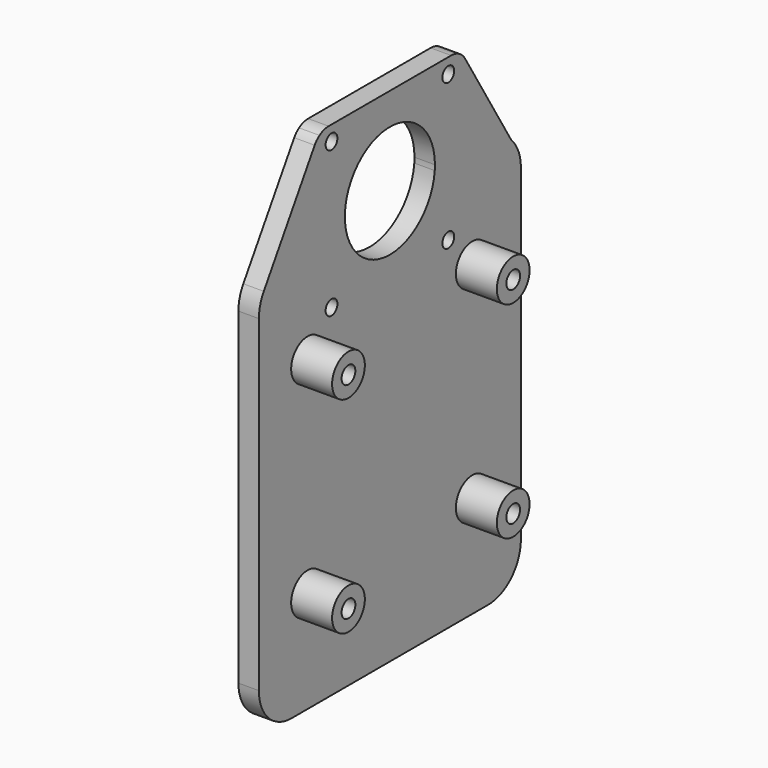
from build123d import *

# Parameters (mm, degrees)
F0_R     = 5
F0_R_2   = 1.8
F1_DEPTH = 5
F0_R_3   = 2.1
F2_DEPTH = 15


with BuildPart() as f1:
    # F0 (on Right) → F1 (new body)
    with BuildSketch(Plane.YZ):
        with BuildLine():
            Line((-30, -75.14885), (30, -75.14885))
            ThreePointArc((30, -75.14885), (37.071068, -72.219918), (40, -65.14885))
            Line((40, -65.14885), (40, 14.85115))
            ThreePointArc((40, 14.85115), (39.238795, 18.677984), (37.071068, 21.922218))
            ThreePointArc((37.071068, 21.922218), (33.826834, 24.089945), (30, 24.85115))
            Line((30, 24.85115), (21.5, 24.85115))
            Line((21.5, 24.85115), (21.5, 4.58134))
            Line((21.5, 4.58134), (-21.5, 4.58134))
            Line((-21.5, 4.58134), (-21.5, 24.85115))
            Line((-21.5, 24.85115), (-30, 24.85115))
            ThreePointArc((-30, 24.85115), (-34.866502, 23.587119), (-38.502722, 20.114582))
            ThreePointArc((-38.502722, 20.114582), (-39.6184, 17.587277), (-40, 14.85115))
            Line((-40, 14.85115), (-40, -65.14885))
            ThreePointArc((-40, -65.14885), (-37.071068, -72.219918), (-30, -75.14885))
        make_face()
        with Locations((-25.14885, -50.3)):
            Circle(F0_R, mode=Mode.SUBTRACT)
        with Locations((25.15115, -50.3)):
            Circle(F0_R, mode=Mode.SUBTRACT)
        with Locations((-25.14885, 0)):
            Circle(F0_R, mode=Mode.SUBTRACT)
        with Locations((25.15115, 0)):
            Circle(F0_R, mode=Mode.SUBTRACT)
        with BuildLine():
            ThreePointArc((30, 24.85115), (33.826834, 24.089945), (37.071068, 21.922218))
            Line((37.071068, 21.922218), (22.960092, 45.175296))
            ThreePointArc((22.960092, 45.175296), (22.312585, 46.022981), (21.5, 46.714025))
            Line((21.5, 46.714025), (21.5, 24.85115))
            Line((21.5, 24.85115), (30, 24.85115))
        make_face()
        with BuildLine():
            Line((-22.966037, 45.213056), (-38.502722, 20.114582))
            ThreePointArc((-38.502722, 20.114582), (-34.866502, 23.587119), (-30, 24.85115))
            Line((-30, 24.85115), (-21.5, 24.85115))
            Line((-21.5, 24.85115), (-21.5, 46.733685))
            ThreePointArc((-21.5, 46.733685), (-22.314233, 46.05167), (-22.966037, 45.213056))
        make_face()
        with BuildLine():
            Line((13.694858, 24.85115), (21.5, 24.85115))
            Line((21.5, 24.85115), (21.5, 46.714025))
            ThreePointArc((21.5, 46.714025), (20.158098, 47.359594), (18.685587, 47.58134))
            Line((18.685587, 47.58134), (-18.714676, 47.58134))
            ThreePointArc((-18.714676, 47.58134), (-20.170401, 47.364735), (-21.5, 46.733685))
            Line((-21.5, 46.733685), (-21.5, 24.85115))
            Line((-21.5, 24.85115), (-13.694858, 24.85115))
            ThreePointArc((-13.694858, 24.85115), (-0.615713, 39.817548), (13.75, 26.08134))
            ThreePointArc((13.75, 26.08134), (13.736208, 25.465628), (13.694858, 24.85115))
        make_face()
        with Locations((-17.825069, 43.906409)):
            Circle(F0_R_2, mode=Mode.SUBTRACT)
        with Locations((17.825069, 43.906409)):
            Circle(F0_R_2, mode=Mode.SUBTRACT)
        with BuildLine():
            Line((21.5, 4.58134), (21.5, 24.85115))
            Line((21.5, 24.85115), (13.694858, 24.85115))
            ThreePointArc((13.694858, 24.85115), (0, 12.33134), (-13.694858, 24.85115))
            Line((-13.694858, 24.85115), (-21.5, 24.85115))
            Line((-21.5, 24.85115), (-21.5, 4.58134))
            Line((-21.5, 4.58134), (21.5, 4.58134))
        make_face()
        with Locations((-17.825069, 8.256271)):
            Circle(F0_R_2, mode=Mode.SUBTRACT)
        with Locations((17.825069, 8.256271)):
            Circle(F0_R_2, mode=Mode.SUBTRACT)
    extrude(amount=F1_DEPTH)

    # F0 (on Right) → F2 (join)
    with BuildSketch(Plane.YZ):
        with Locations((-25.14885, 0)):
            Circle(F0_R)
        with Locations((-25.14885, 0)):
            Circle(F0_R_3, mode=Mode.SUBTRACT)
        with Locations((25.15115, 0)):
            Circle(F0_R)
        with Locations((25.15115, 0)):
            Circle(F0_R_3, mode=Mode.SUBTRACT)
        with Locations((25.15115, -50.3)):
            Circle(F0_R)
        with Locations((25.15115, -50.3)):
            Circle(F0_R_3, mode=Mode.SUBTRACT)
        with Locations((-25.14885, -50.3)):
            Circle(F0_R)
        with Locations((-25.14885, -50.3)):
            Circle(F0_R_3, mode=Mode.SUBTRACT)
    extrude(amount=F2_DEPTH)


solid = f1.part
